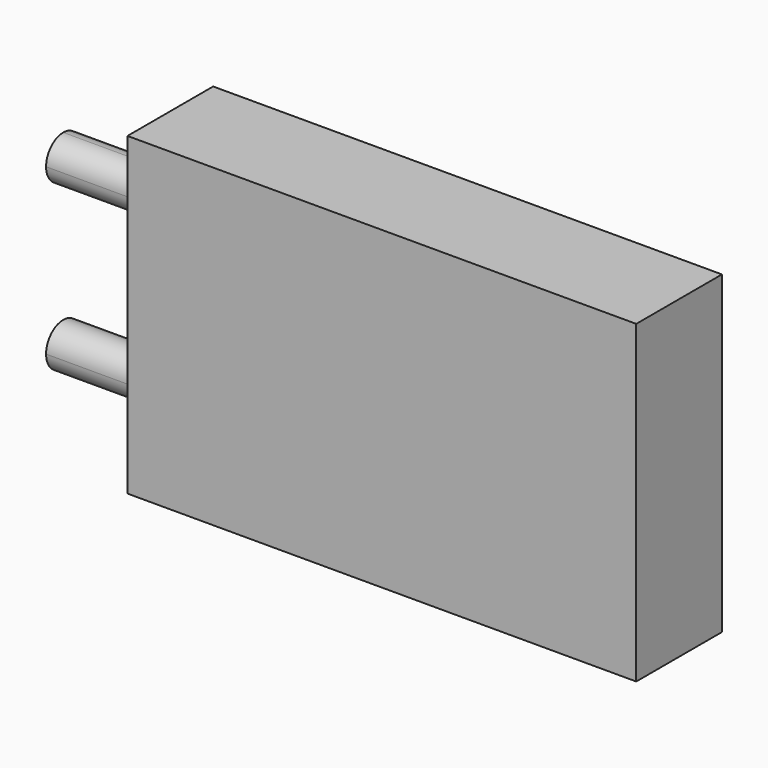
from build123d import *

# Parameters (mm, degrees)
F0_W      = 60.33
F0_H      = 38.1
F1_DEPTH  = 12.7
F3_DEPTH  = 38.1
F4_W      = 11.2605243921
F4_H      = 14.8357795551
F5_DEPTH  = 3.175
F6_W      = 12.7
F6_H      = 0.254
F7_DEPTH  = 101.6
F8_W      = 7.62
F8_H      = 0.6586039143
F11_W     = 5.8358858012
F11_H     = 2.5163960857
F12_DEPTH = 7.62
F13_W     = 12.7
F13_H     = 0.508
F14_DEPTH = 101.6
F16_DEPTH = 17.78
F18_DEPTH = 25.4
F20_DEPTH = 12.7


with BuildPart() as f1:
    # F0 (on Front) → F1 (new body)
    with BuildSketch(Plane.XZ):
        with Locations((30.165, 19.05)):
            Rectangle(F0_W, F0_H)
    extrude(amount=F1_DEPTH)

    # F2 (on face) → F3 (join)
    with BuildSketch(Plane.XY.offset(38.1)):
        Polygon((0, -2.7734531851), (-7.62, 0), (-7.62, -12.7), (0, -9.9265468149), align=None)
    extrude(amount=-F3_DEPTH)

    # F4 (on face) → F5 (cut)
    with BuildSketch(Plane(origin=(0, 0, 0), x_dir=(1, 0, 0), z_dir=(0, 0, -1))):
        with Locations((-5.6302621961, 7.4178897776)):
            Rectangle(F4_W, F4_H)
    extrude(amount=-F5_DEPTH, mode=Mode.SUBTRACT)

    # F6 (on face) → F7 (cut)
    with BuildSketch(Plane.YZ.offset(60.33)):
        with Locations((-6.35, 37.973)):
            Rectangle(F6_W, F6_H)
    extrude(amount=-F7_DEPTH, mode=Mode.SUBTRACT)

    # F10: sweep along a path in F9
    with BuildLine(Plane(origin=(0, 0, 0), x_dir=(0, -1, 0), z_dir=(-1, 0, 0))) as f10_path:
        Line((2.7734531851, 3.175), (2.7734531851, 0))
        Line((2.7734531851, 0), (9.9265468149, 0))
        Line((9.9265468149, 0), (9.9265468149, 3.175))
    # F8 (on face) → F10 (sweep)
    with BuildSketch(Plane(origin=(0, 0, 3.175), x_dir=(1, 0, 0), z_dir=(0, 0, -1))):
        with Locations((-3.81, 3.1027551423)):
            Rectangle(F8_W, F8_H)
        Polygon((-7.62, 0), (0, 2.7734531851), (-7.62, 2.7734531851), align=None)
    sweep(path=f10_path.line, transition=Transition.RIGHT)

    # F11 (on face) → F12 (join)
    with BuildSketch(Plane(origin=(-7.62, 0, 0), x_dir=(0, -1, 0), z_dir=(-1, 0, 0))):
        with Locations((6.35, 1.9168019572)):
            Rectangle(F11_W, F11_H)
    extrude(amount=-F12_DEPTH)

    # F13 (on face) → F14 (cut)
    with BuildSketch(Plane.YZ.offset(60.33)):
        with Locations((-6.35, 37.592)):
            Rectangle(F13_W, F13_H)
    extrude(amount=-F14_DEPTH, mode=Mode.SUBTRACT)

    # F15 (on face) → F16 (cut)
    with BuildSketch(Plane.XY.offset(37.338)):
        Polygon((0, -2.7734531851), (-7.62, 0), (-7.62, -12.7), (0, -9.9265468149), align=None)
    extrude(amount=-F16_DEPTH, mode=Mode.SUBTRACT)

    # F17 (on face) → F18 (cut)
    with BuildSketch(Plane.XY.offset(19.558)):
        Polygon((-7.62, 0), (-7.62, -12.7), (0, -9.9265468149), (0, -2.7734531851), align=None)
    extrude(amount=-F18_DEPTH, mode=Mode.SUBTRACT)

    # F19 (on face) → F20 (join)
    with BuildSketch(Plane(origin=(0, 0, 0), x_dir=(0, -1, 0), z_dir=(-1, 0, 0))):
        with BuildLine():
            ThreePointArc((8.89, 8.89), (4.5539487758, 10.6860512242), (6.35, 6.35))
            ThreePointArc((6.35, 6.35), (8.1460512242, 7.0939487758), (8.89, 8.89))
        make_face()
        with BuildLine():
            ThreePointArc((8.89, 28.448), (8.1460512242, 30.2440512242), (6.35, 30.988))
            ThreePointArc((6.35, 30.988), (4.5539487758, 26.6519487758), (8.89, 28.448))
        make_face()
    extrude(amount=F20_DEPTH)


solid = f1.part
